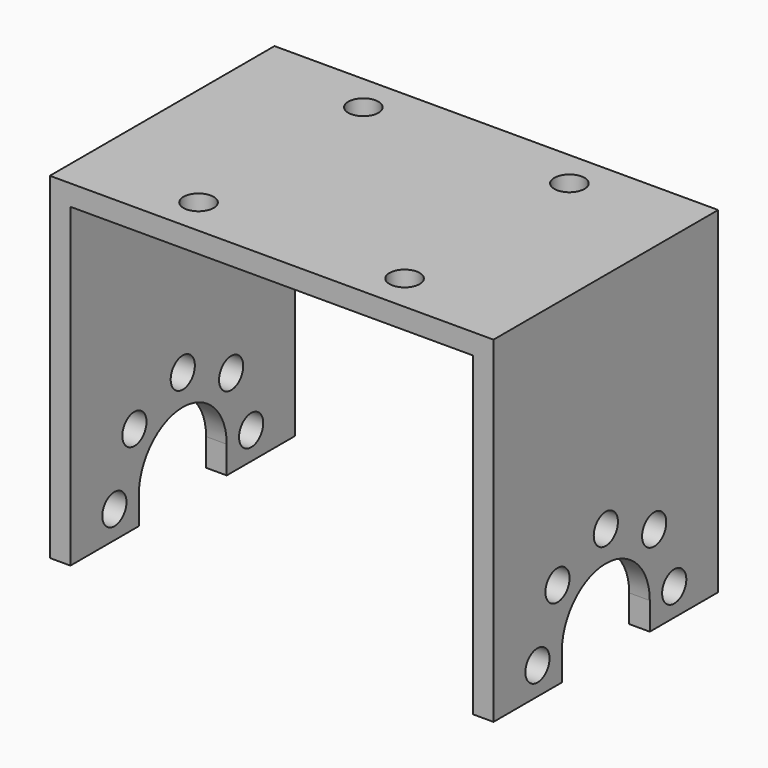
from build123d import *

# Parameters (mm, degrees)
F1_DEPTH = 33
F2_R     = 1.1
F2_W     = 6.27746
F2_H     = 1.5
F3_DEPTH = 32.301
F4_R     = 1.1
F5_DEPTH = 1.5


with BuildPart() as f1:
    # F0 (on Front) → F1 (new body)
    with BuildSketch(Plane.XZ):
        Polygon((0, 24.5), (0, 0), (1.5, 0), (1.5, 23), (30.8, 23), (30.8, 0), (32.3, 0), (32.3, 24.5), align=None)
    extrude(amount=F1_DEPTH)

    # F2 (on face) → F3 (cut, through all)
    with BuildSketch(Plane(origin=(0, 0, 0), x_dir=(0, -1, 0), z_dir=(-1, 0, 0))):
        with BuildLine():
            Line((20.5, 0), (20.5, 2))
            ThreePointArc((20.5, 2), (16.5, 6), (12.5, 2))
            Line((12.5, 2), (12.5, 0))
            Line((12.5, 0), (20.5, 0))
        make_face()
        with Locations((22.72254, 2)):
            Circle(F2_R)
        with Locations((20.9, 6.4)):
            Circle(F2_R)
        with Locations((16.5, 8.22254)):
            Circle(F2_R)
        with Locations((12.1, 6.4)):
            Circle(F2_R)
        with Locations((10.27746, 2)):
            Circle(F2_R)
        Polygon((0, 0), (6.27746, 0), (0, 23), align=None)
        Polygon((0, 23), (6.27746, 0), (6.27746, 23), align=None)
        with Locations((3.13873, 23.75)):
            Rectangle(F2_W, F2_H)
        Polygon((26.72254, 0), (33, 0), (33, 23), align=None)
        Polygon((26.72254, 0), (33, 23), (26.72254, 23), align=None)
        with Locations((29.86127, 23.75)):
            Rectangle(F2_W, F2_H)
    extrude(amount=-F3_DEPTH, mode=Mode.SUBTRACT)

    # F4 (on face) → F5 (cut, through all)
    with BuildSketch(Plane.XY.offset(24.5)):
        with Locations((8.65, -9)):
            Circle(F4_R)
        with Locations((23.65, -9)):
            Circle(F4_R)
        with Locations((8.65, -24)):
            Circle(F4_R)
        with Locations((23.65, -24)):
            Circle(F4_R)
    extrude(amount=-F5_DEPTH, mode=Mode.SUBTRACT)


solid = f1.part
